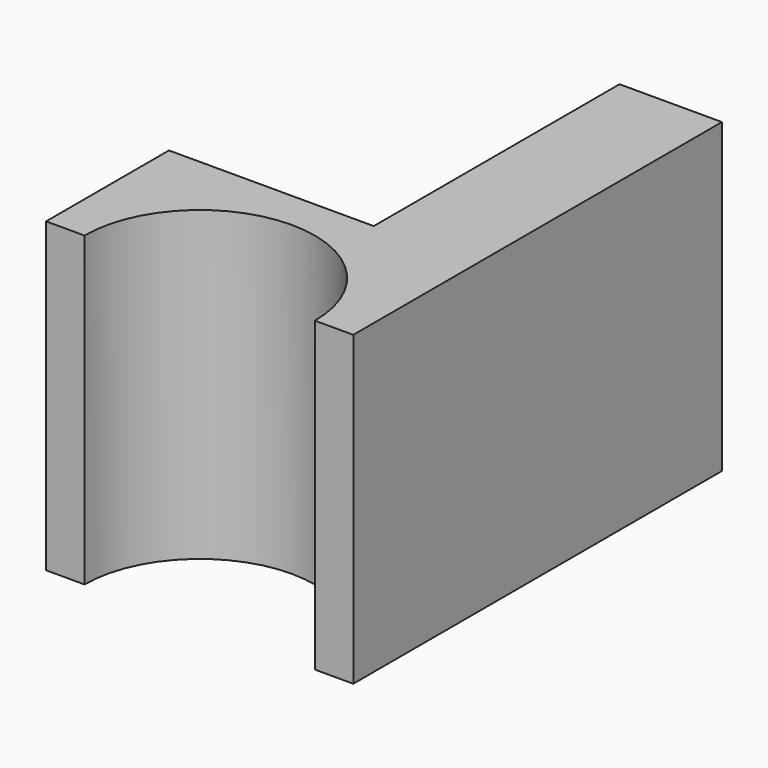
from build123d import *

# Parameters (mm, degrees)
F1_DEPTH = 60
F3_START = -30
F3_DEPTH = 60


with BuildPart() as f1:
    # F0 (on Top) → F1 (new body)
    with BuildSketch(Plane.XY):
        with BuildLine():
            Line((-30, 90), (-30, 0))
            Line((-30, 0), (-22.5, 0))
            ThreePointArc((-22.5, 0), (0, 22.5), (22.5, 0))
            Line((22.5, 0), (30, 0))
            Line((30, 0), (30, 90))
            Line((30, 90), (-30, 90))
        make_face()
    extrude(amount=F1_DEPTH)

    # F2 (on Front) → F3 (cut)
    with BuildSketch(Plane.XZ.offset(F3_START)):
        with BuildLine():
            Line((-30, 60), (-30, 20))
            ThreePointArc((-30, 20), (-1.7157287525, 31.7157287525), (10, 60))
            Line((10, 60), (-30, 60))
        make_face()
    extrude(amount=-F3_DEPTH, mode=Mode.SUBTRACT)


solid = f1.part
